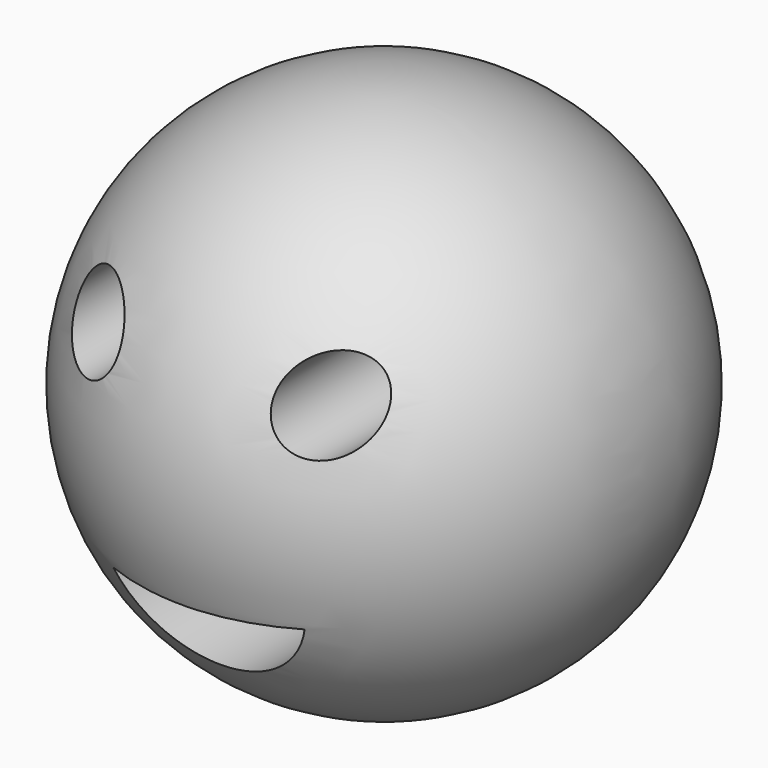
from build123d import *

# Parameters (mm, degrees)
F2_R     = 8.877564
F3_DEPTH = 98.5
F4_R     = 9.157868
F5_DEPTH = 80.2
F7_DEPTH = 93.5


with BuildPart() as f1:
    # F0 (on Front) → F1 (revolve)
    with BuildSketch(Plane.XZ):
        with BuildLine():
            Line((0, 59.798335), (0, -59.798335))
            ThreePointArc((0, -59.798335), (59.798335, 0), (0, 59.798335))
        make_face()
    revolve(axis=Axis((0, 0, 0), (0, 0, -1)))

    # F2 (on Front) → F3 (cut, symmetric)
    with BuildSketch(Plane.XZ):
        with Locations((-26.740938, 22.834959)):
            Circle(F2_R)
    extrude(amount=F3_DEPTH, both=True, mode=Mode.SUBTRACT)

    # F4 (on Front) → F5 (cut, symmetric)
    with BuildSketch(Plane.XZ):
        with Locations((25.83956, 23.435879)):
            Circle(F4_R)
    extrude(amount=F5_DEPTH, both=True, mode=Mode.SUBTRACT)

    # F6 (on Front) → F7 (cut, symmetric)
    with BuildSketch(Plane.XZ):
        with BuildLine():
            ThreePointArc((22.971286, -20.687239), (1.648874, -21.786302), (-19.701775, -21.840565))
            ThreePointArc((-19.701775, -21.840565), (2.043902, -36.402335), (22.971286, -20.687239))
        make_face()
    extrude(amount=F7_DEPTH, both=True, mode=Mode.SUBTRACT)


solid = f1.part
